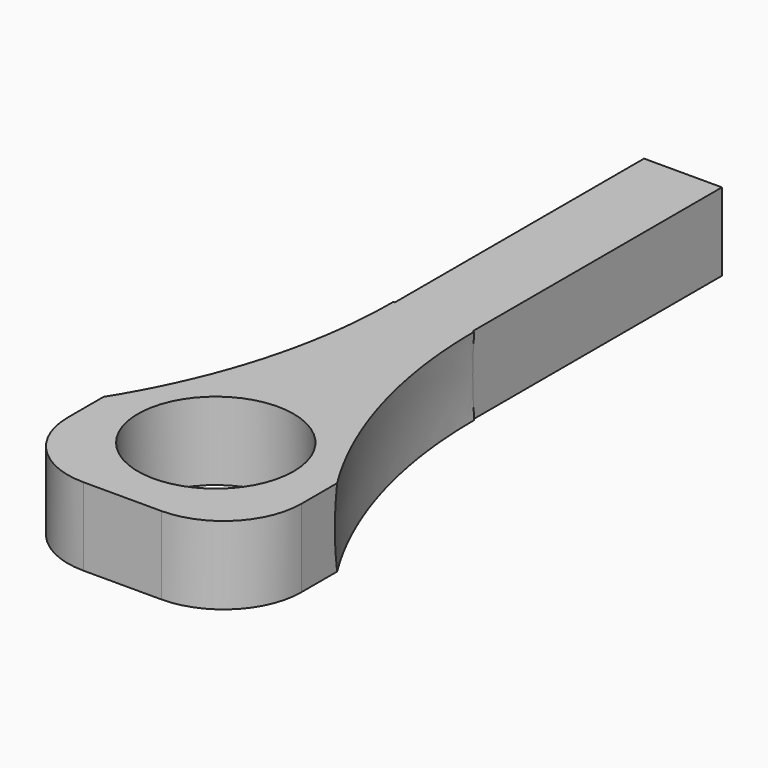
from build123d import *

# Parameters (mm, degrees)
BOX_W           = 3
BOX_H           = 9
BOX_DEPTH       = 1
SKETCH_R        = 1
POCKET_DEPTH    = 3
BOX001_W        = 2
BOX001_H        = 4
BOX001_DEPTH    = 2
POCKET001_DEPTH = 0.15
FILLET_R        = 1


with BuildPart() as part:
    # Box → Box (join)
    with BuildSketch(Plane(origin=(-1.5, 0, -0.5), x_dir=(1, 0, 0), z_dir=(0, 0, 1))):
        with Locations((1.5, 4.5)):
            Rectangle(BOX_W, BOX_H)
    extrude(amount=BOX_DEPTH)

    # Sketch → Pocket (cut, symmetric)
    with BuildSketch(Plane.XY):
        with Locations((0, 1.5)):
            Circle(SKETCH_R)
    extrude(amount=POCKET_DEPTH, both=True, mode=Mode.SUBTRACT)

    # Sphere → Sphere (revolve, cut)
    with BuildSketch(Plane(origin=(-7, 5, 0), x_dir=(0, 1, 0), z_dir=(0, 0, -1))):
        with BuildLine():
            ThreePointArc((0, -6.5), (6.5, 0), (0, 6.5))
            Line((0, 6.5), (0, -6.5))
        make_face()
    sphere = revolve(axis=Axis((-7, 5, 0), (1, 0, 0)), mode=Mode.SUBTRACT)

    # Mirrored: Sphere across YZ
    add(sphere.mirror(Plane.YZ), mode=Mode.SUBTRACT)

    # Box001 → Box001 (cut)
    with BuildSketch(Plane(origin=(0.5, 5, -1), x_dir=(1, 0, 0), z_dir=(0, 0, 1))):
        with Locations((1, 2)):
            Rectangle(BOX001_W, BOX001_H)
    box001 = extrude(amount=BOX001_DEPTH, mode=Mode.SUBTRACT)

    # Mirrored001: Box001 across YZ
    add(box001.mirror(Plane.YZ), mode=Mode.SUBTRACT)

    # Sketch001 (on Face4 of Mirrored001) → Pocket001 (cut, symmetric)
    with BuildSketch(Plane(origin=(0.5, 5, -0.5), x_dir=(1, 0, 0), z_dir=(0, 0, -1))):
        Polygon((-0.25, -3.9), (-0.75, -3.9), (-1, 2.4), (0, 2.4), align=None)
    extrude(amount=POCKET001_DEPTH, both=True, mode=Mode.SUBTRACT)

    # Fillet
    fillet_edges = [part.edges().sort_by_distance(p)[0] for p in [
        (-1.5, 0, 0),
        (1.5, 0, 0),
    ]]
    fillet(fillet_edges, radius=FILLET_R)


solid = part.part
